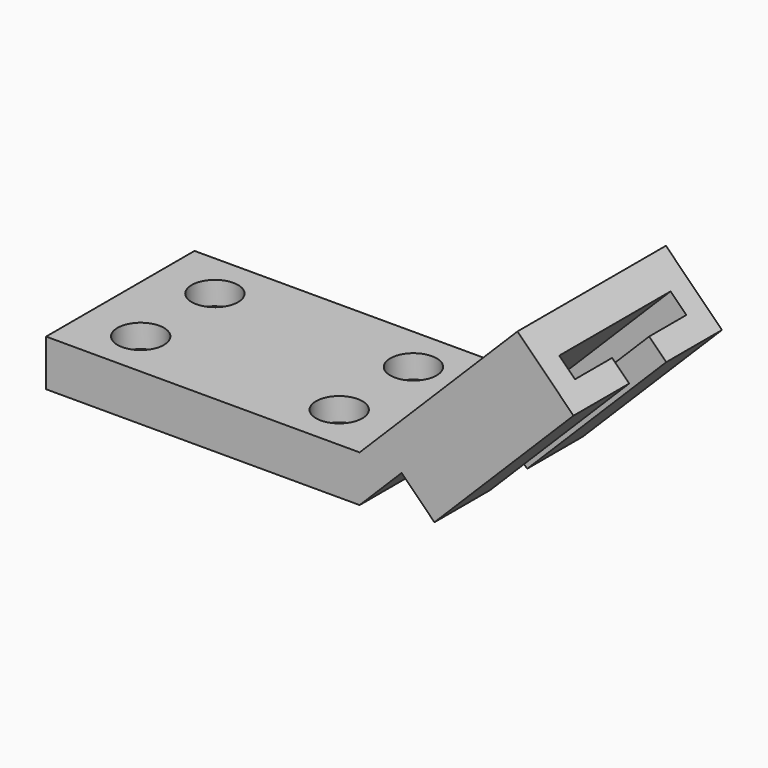
from build123d import *

# Parameters (mm, degrees)
F0_W           = 85.852
F0_H           = 12.7
F1_DEPTH       = 50.8
F3_D           = 7.874
F3_CBORE_D     = 12.7
F3_CBORE_DEPTH = 6.35
F4_DEPTH       = 25.4
F5_W           = 19.05
F5_H           = 53.848
F6_DEPTH       = 12.7
F7_W           = 12.7
F7_H           = 6.096
F8_DEPTH       = 53.848


with BuildPart() as f1:
    # F0 (on Front) → F1 (new body)
    with BuildSketch(Plane.XZ):
        with Locations((42.926, 6.35)):
            Rectangle(F0_W, F0_H)
        Polygon((85.852, 12.7), (85.852, 0), (135.4230137883, 49.5710137883), (129.0730137883, 55.9210137883), align=None)
    extrude(amount=F1_DEPTH)

    # F3 (through all)
    with Locations(Plane.XY.offset(12.7)):
        with Locations((15.748, -12.7), (15.748, -38.1), (70.104, -38.1), (70.104, -12.7)):
            CounterBoreHole(F3_D / 2, F3_CBORE_D / 2, F3_CBORE_DEPTH)

    # F0 (on Front) → F4 (join)
    with BuildSketch(Plane.XZ):
        Polygon((85.852, 12.7), (85.852, 0), (135.4230137883, 49.5710137883), (129.0730137883, 55.9210137883), align=None)
    extrude(amount=F4_DEPTH)

    # F5 (on face) → F6 (join)
    with BuildSketch(Plane(origin=(42.926, 0, -42.926), x_dir=(0, 1, 0), z_dir=(0.7071067812, 0, -0.7071067812))):
        with Locations((-9.525, 103.8865313784)):
            Rectangle(F5_W, F5_H)
        with Locations((-41.275, 103.8865313784)):
            Rectangle(F5_W, F5_H)
    extrude(amount=F6_DEPTH)

    # F7 (on face) → F8 (cut)
    with BuildSketch(Plane(origin=(92.4970137883, 0, 92.4970137883), x_dir=(0, 1, 0), z_dir=(0.7071067812, 0, 0.7071067812))):
        with Locations((-12.7, -63.7545313784)):
            Rectangle(F7_W, F7_H)
        with Locations((-38.1, -63.7545313784)):
            Rectangle(F7_W, F7_H)
    extrude(amount=-F8_DEPTH, mode=Mode.SUBTRACT)


solid = f1.part
